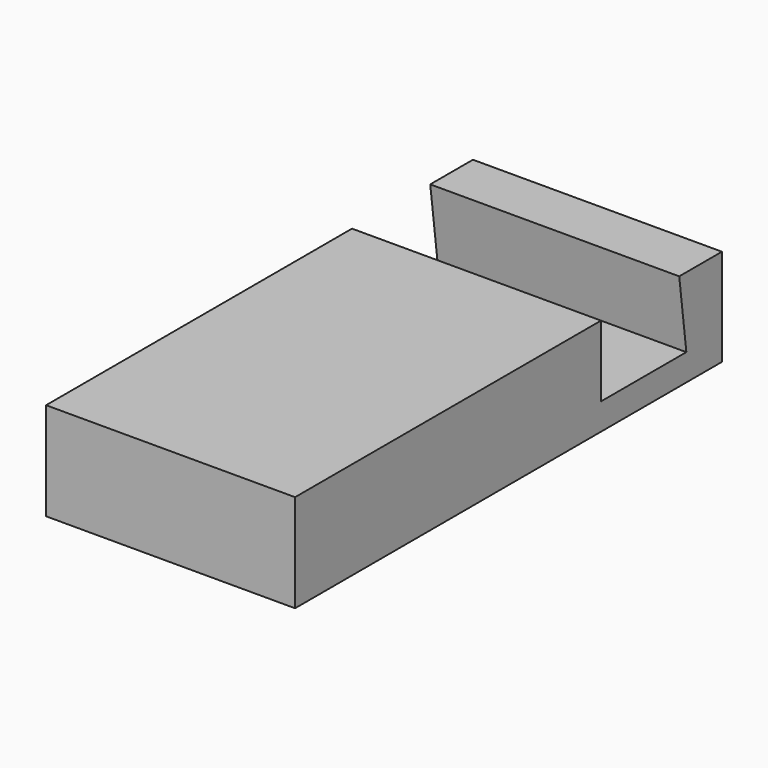
from build123d import *

# Parameters (mm, degrees)
PAD_DEPTH = 28


with BuildPart() as part:
    # Sketch → Pad (new body)
    with BuildSketch(Plane.YZ):
        Polygon((0, 0), (0, 11), (43.000359, 11), (43.000359, 3), (55.000359, 3), (54, 10.91116), (60, 10.91116), (60, 0), align=None)
    extrude(amount=PAD_DEPTH)


solid = part.part
